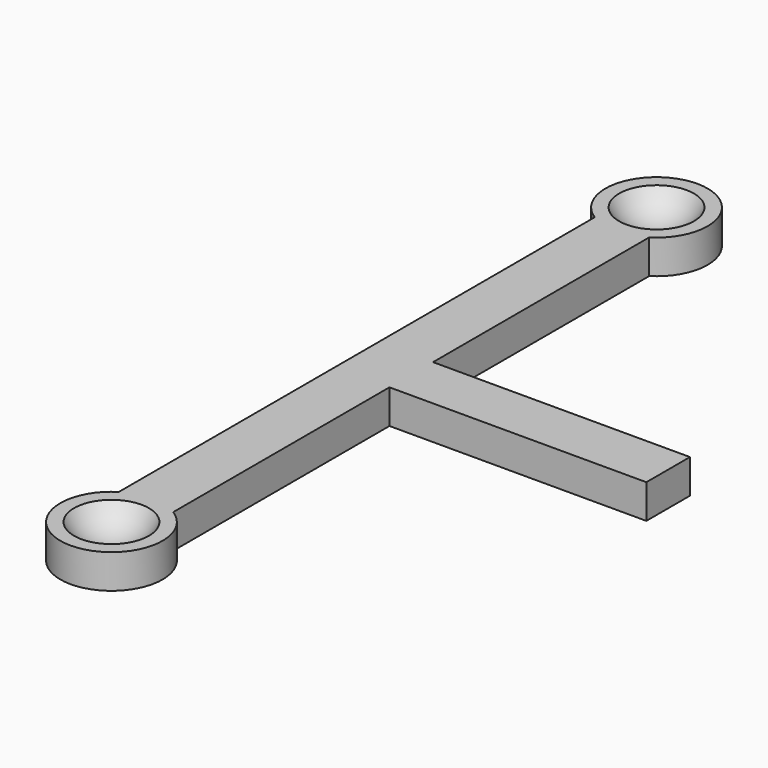
from build123d import *

# Parameters (mm, degrees)
PAD_DEPTH    = 0.25
SKETCH001_R  = 0.75
PAD001_DEPTH = 0.25
SKETCH002_R  = 0.75
PAD002_DEPTH = 0.25
SKETCH003_R  = 0.75
PAD003_DEPTH = 0.25
SKETCH004_R  = 0.75
PAD004_DEPTH = 0.4
SKETCH005_W  = 10
SKETCH005_H  = 10
POCKET_DEPTH = 12.626


with BuildPart() as part:
    # Sketch (on DatumPlane) → Pad (new body, symmetric)
    with BuildSketch(Plane.XY.offset(0.5675)):
        Polygon((-7.195606, 5), (-7.195606, 0), (-7.195606, -5), (-6.795606, -5), (-6.395606, -5), (-6.395606, -0.4), (10, -0.4), (10, 0.4), (-6.395606, 0.4), (-6.395606, 5), (-6.795606, 5), align=None)
    extrude(amount=PAD_DEPTH, both=True)

    # Sketch001 (on DatumPlane) → Pad001 (join, symmetric)
    with BuildSketch(Plane.XY.offset(0.5675)):
        Circle(SKETCH001_R)
    extrude(amount=PAD001_DEPTH, both=True)

    # Sketch002 (on DatumPlane) → Pad002 (join, symmetric)
    with BuildSketch(Plane.XY.offset(0.5675)):
        with Locations((-6.795606, 5)):
            Circle(SKETCH002_R)
    extrude(amount=PAD002_DEPTH, both=True)

    # Sketch003 (on DatumPlane) → Pad003 (join, symmetric)
    with BuildSketch(Plane.XY.offset(0.5675)):
        with Locations((-6.795606, -5)):
            Circle(SKETCH003_R)
    extrude(amount=PAD003_DEPTH, both=True)

    # Sphere → Sphere (revolve, cut)
    with BuildSketch(Plane.XZ):
        with BuildLine():
            ThreePointArc((0, -0.635), (0.635, 0), (0, 0.635))
            Line((0, 0.635), (0, -0.635))
        make_face()
    revolve(axis=Axis((0, 0, 0), (0, 0, 1)), mode=Mode.SUBTRACT)

    # Sphere001 → Sphere001 (revolve, cut)
    with BuildSketch(Plane(origin=(-6.795606, 5, 1.135), x_dir=(1, 0, 0), z_dir=(0, -1, 0))):
        with BuildLine():
            ThreePointArc((0, -0.635), (0.635, 0), (0, 0.635))
            Line((0, 0.635), (0, -0.635))
        make_face()
    revolve(axis=Axis((-6.795606, 5, 1.135), (0, 0, 1)), mode=Mode.SUBTRACT)

    # Sphere002 → Sphere002 (revolve, cut)
    with BuildSketch(Plane(origin=(-6.795606, -5, 1.135), x_dir=(1, 0, 0), z_dir=(0, -1, 0))):
        with BuildLine():
            ThreePointArc((0, -0.635), (0.635, 0), (0, 0.635))
            Line((0, 0.635), (0, -0.635))
        make_face()
    revolve(axis=Axis((-6.795606, -5, 1.135), (0, 0, 1)), mode=Mode.SUBTRACT)

    # Sketch004 (on DatumPlane) → Pad004 (join, symmetric)
    with BuildSketch(Plane(origin=(0, 0, 0.5675), x_dir=(1, 0, 0), z_dir=(0, -1, 0))):
        with Locations((6.8, 0)):
            Circle(SKETCH004_R)
    extrude(amount=PAD004_DEPTH, both=True)

    # Sphere003 → Sphere003 (revolve, cut)
    with BuildSketch(Plane(origin=(6.8, 0.7175, 0.5675), x_dir=(1, 0, 0), z_dir=(0, -1, 0))):
        with BuildLine():
            ThreePointArc((0, -0.635), (0.635, 0), (0, 0.635))
            Line((0, 0.635), (0, -0.635))
        make_face()
    revolve(axis=Axis((6.8, 0.7175, 0.5675), (0, 0, 1)), mode=Mode.SUBTRACT)

    # Sketch005 (on DatumPlane) → Pocket (cut, through all)
    with BuildSketch(Plane(origin=(-2.625, 0, 0), x_dir=(0, -1, 0), z_dir=(-1, 0, 0))):
        Rectangle(SKETCH005_W, SKETCH005_H)
    extrude(amount=-POCKET_DEPTH, mode=Mode.SUBTRACT)


solid = part.part
